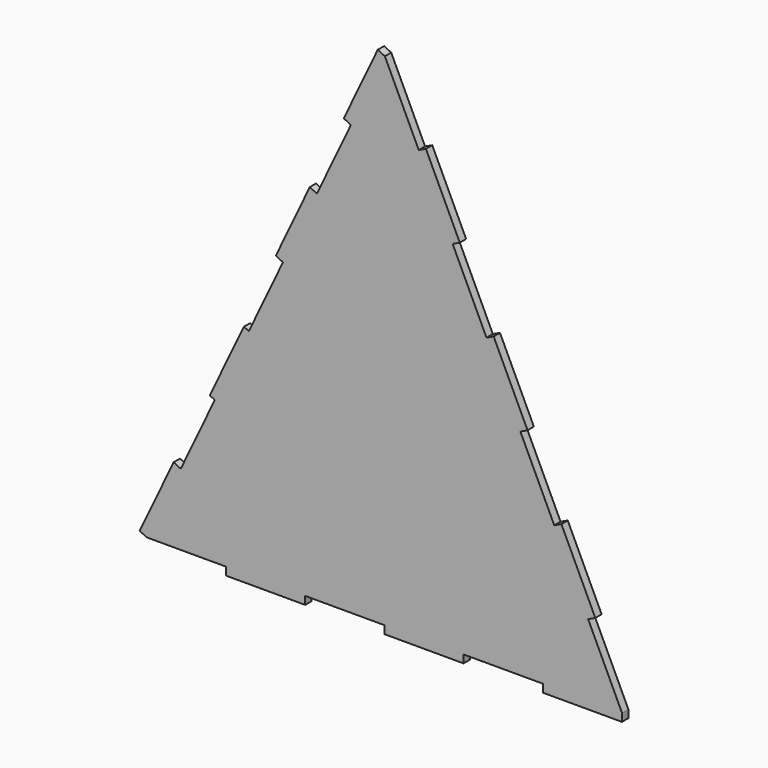
from build123d import *

# Parameters (mm, degrees)
F0_W     = 25.4
F0_H     = 2.54
F1_DEPTH = 2.54


with BuildPart() as f1:
    # F0 (on Front) → F1 (new body)
    with BuildSketch(Plane.XZ):
        Polygon((0, 86.929028), (-10.90126, 63.987308), (-21.80252, 41.045588), (-32.703781, 18.103867), (-43.605041, -4.837853), (-54.562222, -27.897259), (-65.463482, -50.838979), (-76.364742, -73.780699), (-50.964742, -73.780699), (-25.564742, -73.780699), (-0.152042, -73.780699), (25.247958, -73.780699), (50.647958, -73.780699), (76.060658, -73.780699), (65.19485, -50.822167), (54.329041, -27.863634), (43.463233, -4.905102), (32.597425, 18.053431), (21.731617, 41.011963), (10.865808, 63.970496), align=None)
        Polygon((-13.195432, 65.077434), (-10.90126, 63.987308), (0, 86.929028), (-2.294172, 88.019154), align=None)
        Polygon((-32.703781, 18.103867), (-21.80252, 41.045588), (-24.096692, 42.135714), (-34.997953, 19.193993), align=None)
        Polygon((13.161662, 65.057076), (10.865808, 63.970496), (21.731617, 41.011963), (24.02747, 42.098544), align=None)
        Polygon((-54.562222, -27.897259), (-43.605041, -4.837853), (-45.272266, -4.189892), (-56.173526, -27.131612), align=None)
        Polygon((34.893278, 19.140012), (32.597425, 18.053431), (43.463233, -4.905102), (45.759086, -3.818521), align=None)
        Polygon((-76.364742, -73.780699), (-65.463482, -50.838979), (-67.757654, -49.748853), (-78.658914, -72.690573), align=None)
        Polygon((56.624895, -26.777053), (54.329041, -27.863634), (65.19485, -50.822167), (67.490703, -49.735586), align=None)
        with Locations((-38.264742, -75.050699)):
            Rectangle(F0_W, F0_H)
        Polygon((76.047958, -76.320699), (76.060658, -73.780699), (50.647958, -73.780699), (50.647958, -76.320699), align=None)
        with Locations((12.547958, -75.050699)):
            Rectangle(F0_W, F0_H)
    extrude(amount=F1_DEPTH)


solid = f1.part
